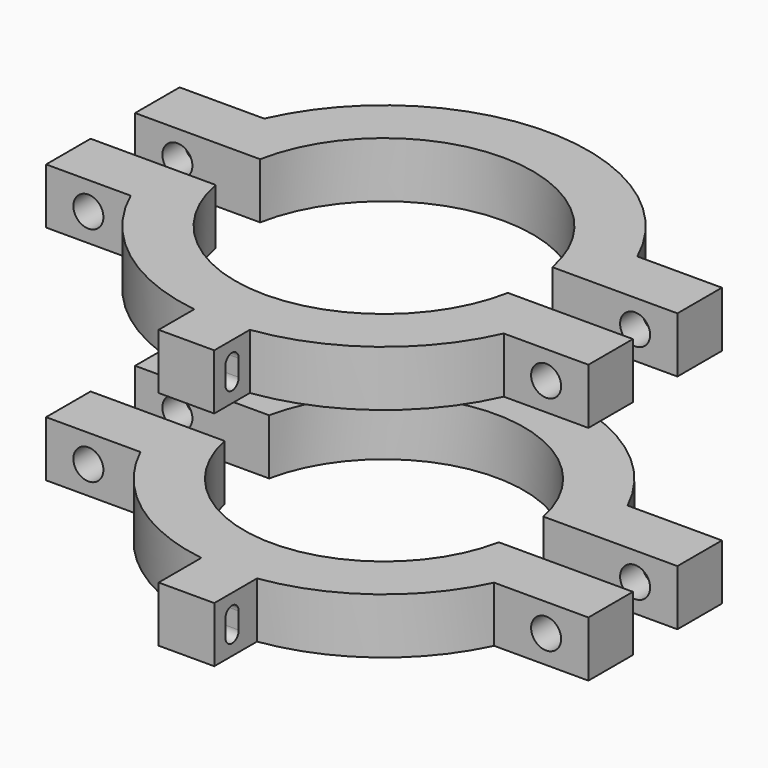
from build123d import *

# Parameters (mm, degrees)
EXTRUDE001_DEPTH          = 5
EXTRUDE001_ROLL_ANGLE     = 90
EXTRUDE002_DEPTH          = 5
EXTRUDE002_ROLL_ANGLE     = 90
CYLINDER006_R             = 2.7
CYLINDER006_DEPTH         = 60
CYLINDER006_ROLL_ANGLE    = -90
CYLINDER004_R             = 2.7
CYLINDER004_DEPTH         = 60
CYLINDER004_ROLL_ANGLE    = -90
PAD004_DEPTH              = 10
EXTRUDE_DEPTH             = 5
EXTRUDE_ROLL_ANGLE        = 90
EXTRUDE003_DEPTH          = 5
EXTRUDE003_ROLL_ANGLE     = 90
CYLINDER007_R             = 2.7
CYLINDER007_DEPTH         = 60
CYLINDER007_ROLL_ANGLE    = -90
CYLINDER005_R             = 2.7
CYLINDER005_DEPTH         = 60
CYLINDER005_ROLL_ANGLE    = -90
PAD006_DEPTH              = 10
BOX_W                     = 3
BOX_H                     = 3
BOX_DEPTH                 = 20
CYLINDER008_R             = 1.5
CYLINDER008_DEPTH         = 20
CYLINDER009_R             = 1.5
CYLINDER009_DEPTH         = 20
FUSION_ROLL_ANGLE         = 90
FUSION_PLACEMENT_ANGLE    = 90
CYLINDER002_R             = 2.7
CYLINDER002_DEPTH         = 60
CYLINDER002_ROLL_ANGLE    = -90
CYLINDER_R                = 2.7
CYLINDER_DEPTH            = 60
CYLINDER_ROLL_ANGLE       = -90
PAD_DEPTH                 = 10
BOX001_W                  = 3
BOX001_H                  = 3
BOX001_DEPTH              = 20
CYLINDER010_R             = 1.5
CYLINDER010_DEPTH         = 20
CYLINDER011_R             = 1.5
CYLINDER011_DEPTH         = 20
FUSION001_ROLL_ANGLE      = 90
FUSION001_PLACEMENT_ANGLE = 90
CYLINDER003_R             = 2.7
CYLINDER003_DEPTH         = 60
CYLINDER003_ROLL_ANGLE    = -90
CYLINDER001_R             = 2.7
CYLINDER001_DEPTH         = 60
CYLINDER001_ROLL_ANGLE    = -90
PAD005_DEPTH              = 10


with BuildPart() as top_right_nut:
    # RegularPolygon001 → Extrude001 (new body)
    with BuildSketch(Plane(origin=(0, 0, 0), x_dir=(0, 1, 0), z_dir=(0, 0, 1))):
        Polygon((0, -4.42), (3.827832, -2.21), (3.827832, 2.21), (0, 4.42), (-3.827832, 2.21), (-3.827832, -2.21), align=None)
    extrude(amount=EXTRUDE001_DEPTH)


with BuildPart() as top_right_nut_1:
    # Extrude001 roll: moved
    add(top_right_nut.part.rotate(Axis((0, 0, 0), (1, 0, 0)), EXTRUDE001_ROLL_ANGLE))


with BuildPart() as top_right_nut_2:
    # Extrude001 placement: moved
    add(top_right_nut_1.part.moved(Location((41.144225, 15, 45))))


with BuildPart() as top_left_nut:
    # RegularPolygon002 → Extrude002 (new body)
    with BuildSketch(Plane(origin=(0, 0, 0), x_dir=(0, 1, 0), z_dir=(0, 0, 1))):
        Polygon((0, -4.42), (3.827832, -2.21), (3.827832, 2.21), (0, 4.42), (-3.827832, 2.21), (-3.827832, -2.21), align=None)
    extrude(amount=EXTRUDE002_DEPTH)


with BuildPart() as top_left_nut_1:
    # Extrude002 roll: moved
    add(top_left_nut.part.rotate(Axis((0, 0, 0), (1, 0, 0)), EXTRUDE002_ROLL_ANGLE))


with BuildPart() as top_left_nut_2:
    # Extrude002 placement: moved
    add(top_left_nut_1.part.moved(Location((-41.144225, 15, 45))))


with BuildPart() as cyl_top_right001:
    # Cylinder006 → Cylinder006 (new body)
    with BuildSketch(Plane.XY):
        Circle(CYLINDER006_R)
    extrude(amount=CYLINDER006_DEPTH)


with BuildPart() as cyl_top_right001_1:
    # Cylinder006 roll: moved
    add(cyl_top_right001.part.rotate(Axis((0, 0, 0), (1, 0, 0)), CYLINDER006_ROLL_ANGLE))


with BuildPart() as cyl_top_right001_2:
    # Cylinder006 placement: moved
    add(cyl_top_right001_1.part.moved(Location((41.144225, -25, 45))))


with BuildPart() as cyl_top_left001:
    # Cylinder004 → Cylinder004 (new body)
    with BuildSketch(Plane.XY):
        Circle(CYLINDER004_R)
    extrude(amount=CYLINDER004_DEPTH)


with BuildPart() as cyl_top_left001_1:
    # Cylinder004 roll: moved
    add(cyl_top_left001.part.rotate(Axis((0, 0, 0), (1, 0, 0)), CYLINDER004_ROLL_ANGLE))


with BuildPart() as cyl_top_left001_2:
    # Cylinder004 placement: moved
    add(cyl_top_left001_1.part.moved(Location((-41.144225, -25, 45))))


with BuildPart() as rear_top_clamp_nut_holes:
    # Sketch004 → Pad004 (new body)
    with BuildSketch(Plane(origin=(0, 0, 40), x_dir=(-1, 0, 0), z_dir=(0, 0, 1))):
        with BuildLine():
            ThreePointArc((-26.268376, -5), (0, -26.74), (26.268376, -5))
            Line((48.75, -5), (26.268376, -5))
            Line((48.75, -5), (48.75, -15))
            Line((48.75, -15), (33.53845, -15))
            ThreePointArc((-33.53845, -15), (0, -36.74), (33.53845, -15))
            Line((-48.75, -15), (-33.53845, -15))
            Line((-48.75, -5), (-48.75, -15))
            Line((-26.268376, -5), (-48.75, -5))
        make_face()
    extrude(amount=PAD004_DEPTH)

    # Cut001: cut cyl_top_left001
    add(cyl_top_left001_2.part, mode=Mode.SUBTRACT)

    # Cut005: cut cyl_top_right001
    add(cyl_top_right001_2.part, mode=Mode.SUBTRACT)

    # Cut008: cut top_left_nut
    add(top_left_nut_2.part, mode=Mode.SUBTRACT)

    # Cut009: cut top_right_nut
    add(top_right_nut_2.part, mode=Mode.SUBTRACT)


with BuildPart() as bottom_right_nut:
    # RegularPolygon → Extrude (new body)
    with BuildSketch(Plane(origin=(0, 0, 0), x_dir=(0, 1, 0), z_dir=(0, 0, 1))):
        Polygon((0, -4.42), (3.827832, -2.21), (3.827832, 2.21), (0, 4.42), (-3.827832, 2.21), (-3.827832, -2.21), align=None)
    extrude(amount=EXTRUDE_DEPTH)


with BuildPart() as bottom_right_nut_1:
    # Extrude roll: moved
    add(bottom_right_nut.part.rotate(Axis((0, 0, 0), (1, 0, 0)), EXTRUDE_ROLL_ANGLE))


with BuildPart() as bottom_right_nut_2:
    # Extrude placement: moved
    add(bottom_right_nut_1.part.moved(Location((41.144225, 15, 5))))


with BuildPart() as bottom_left_nut:
    # RegularPolygon003 → Extrude003 (new body)
    with BuildSketch(Plane(origin=(0, 0, 0), x_dir=(0, 1, 0), z_dir=(0, 0, 1))):
        Polygon((0, -4.42), (3.827832, -2.21), (3.827832, 2.21), (0, 4.42), (-3.827832, 2.21), (-3.827832, -2.21), align=None)
    extrude(amount=EXTRUDE003_DEPTH)


with BuildPart() as bottom_left_nut_1:
    # Extrude003 roll: moved
    add(bottom_left_nut.part.rotate(Axis((0, 0, 0), (1, 0, 0)), EXTRUDE003_ROLL_ANGLE))


with BuildPart() as bottom_left_nut_2:
    # Extrude003 placement: moved
    add(bottom_left_nut_1.part.moved(Location((-41.144225, 15, 5))))


with BuildPart() as cyl_bottom_right001:
    # Cylinder007 → Cylinder007 (new body)
    with BuildSketch(Plane.XY):
        Circle(CYLINDER007_R)
    extrude(amount=CYLINDER007_DEPTH)


with BuildPart() as cyl_bottom_right001_1:
    # Cylinder007 roll: moved
    add(cyl_bottom_right001.part.rotate(Axis((0, 0, 0), (1, 0, 0)), CYLINDER007_ROLL_ANGLE))


with BuildPart() as cyl_bottom_right001_2:
    # Cylinder007 placement: moved
    add(cyl_bottom_right001_1.part.moved(Location((41.144225, -25, 5))))


with BuildPart() as cyl_bottom_left001:
    # Cylinder005 → Cylinder005 (new body)
    with BuildSketch(Plane.XY):
        Circle(CYLINDER005_R)
    extrude(amount=CYLINDER005_DEPTH)


with BuildPart() as cyl_bottom_left001_1:
    # Cylinder005 roll: moved
    add(cyl_bottom_left001.part.rotate(Axis((0, 0, 0), (1, 0, 0)), CYLINDER005_ROLL_ANGLE))


with BuildPart() as cyl_bottom_left001_2:
    # Cylinder005 placement: moved
    add(cyl_bottom_left001_1.part.moved(Location((-41.144225, -25, 5))))


with BuildPart() as rear_bottom_clamp_nut_holes:
    # Sketch006 → Pad006 (new body)
    with BuildSketch(Plane(origin=(0, 0, 0), x_dir=(-1, 0, 0), z_dir=(0, 0, 1))):
        with BuildLine():
            ThreePointArc((-24.647972, -5), (0, -25.15), (24.647972, -5))
            Line((48.75, -5), (24.647972, -5))
            Line((48.75, -5), (48.75, -15))
            Line((48.75, -15), (31.788717, -15))
            ThreePointArc((-31.788717, -15), (0, -35.15), (31.788717, -15))
            Line((-48.75, -15), (-31.788717, -15))
            Line((-48.75, -5), (-48.75, -15))
            Line((-24.647972, -5), (-48.75, -5))
        make_face()
    extrude(amount=PAD006_DEPTH)

    # Cut003: cut cyl_bottom_left001
    add(cyl_bottom_left001_2.part, mode=Mode.SUBTRACT)

    # Cut007: cut cyl_bottom_right001
    add(cyl_bottom_right001_2.part, mode=Mode.SUBTRACT)

    # Cut010: cut bottom_left_nut
    add(bottom_left_nut_2.part, mode=Mode.SUBTRACT)

    # Cut011: cut bottom_right_nut
    add(bottom_right_nut_2.part, mode=Mode.SUBTRACT)


with BuildPart() as cube:
    # Box → Box (new body)
    with BuildSketch(Plane(origin=(-1.5, -1.5, 0), x_dir=(1, 0, 0), z_dir=(0, 0, 1))):
        with Locations((1.5, 1.5)):
            Rectangle(BOX_W, BOX_H)
    extrude(amount=BOX_DEPTH)


with BuildPart() as cylinder:
    # Cylinder008 → Cylinder008 (new body)
    with BuildSketch(Plane(origin=(0, -1.5, 0), x_dir=(1, 0, 0), z_dir=(0, 0, 1))):
        Circle(CYLINDER008_R)
    extrude(amount=CYLINDER008_DEPTH)


with BuildPart() as hueco_soporte:
    # Cylinder009 → Cylinder009 (new body)
    with BuildSketch(Plane(origin=(0, 1.5, 0), x_dir=(1, 0, 0), z_dir=(0, 0, 1))):
        Circle(CYLINDER009_R)
    extrude(amount=CYLINDER009_DEPTH)

    # Fusion: union Cube, Cylinder
    add(cube.part)
    add(cylinder.part)


with BuildPart() as hueco_soporte_1:
    # Fusion roll: moved
    add(hueco_soporte.part.rotate(Axis((0, 0, 0), (1, 0, 0)), FUSION_ROLL_ANGLE))


with BuildPart() as hueco_soporte_2:
    # Fusion placement: moved
    add(hueco_soporte_1.part.moved(Location((-10, -40.398181, 45))).rotate(Axis((-10, -40.398181, 45), (0, 0, 1)), FUSION_PLACEMENT_ANGLE))


with BuildPart() as cyl_top_right:
    # Cylinder002 → Cylinder002 (new body)
    with BuildSketch(Plane.XY):
        Circle(CYLINDER002_R)
    extrude(amount=CYLINDER002_DEPTH)


with BuildPart() as cyl_top_right_1:
    # Cylinder002 roll: moved
    add(cyl_top_right.part.rotate(Axis((0, 0, 0), (1, 0, 0)), CYLINDER002_ROLL_ANGLE))


with BuildPart() as cyl_top_right_2:
    # Cylinder002 placement: moved
    add(cyl_top_right_1.part.moved(Location((41.144225, -25, 45))))


with BuildPart() as cyl_top_left:
    # Cylinder → Cylinder (new body)
    with BuildSketch(Plane.XY):
        Circle(CYLINDER_R)
    extrude(amount=CYLINDER_DEPTH)


with BuildPart() as cyl_top_left_1:
    # Cylinder roll: moved
    add(cyl_top_left.part.rotate(Axis((0, 0, 0), (1, 0, 0)), CYLINDER_ROLL_ANGLE))


with BuildPart() as cyl_top_left_2:
    # Cylinder placement: moved
    add(cyl_top_left_1.part.moved(Location((-41.144225, -25, 45))))


with BuildPart() as fore_top_clamp_all_holes:
    # Sketch → Pad (new body)
    with BuildSketch(Plane.XY.offset(40)):
        with BuildLine():
            ThreePointArc((-26.268376, -5), (0, -26.74), (26.268376, -5))
            Line((48.75, -5), (26.268376, -5))
            Line((48.75, -5), (48.75, -15))
            Line((48.75, -15), (33.53845, -15))
            ThreePointArc((5, -36.398181), (22.040271, -29.394796), (33.53845, -15))
            Line((5, -44.398181), (5, -36.398181))
            Line((-5, -44.398181), (5, -44.398181))
            Line((-5, -36.398181), (-5, -44.398181))
            ThreePointArc((-33.53845, -15), (-22.040271, -29.394796), (-5, -36.398181))
            Line((-48.75, -15), (-33.53845, -15))
            Line((-48.75, -5), (-48.75, -15))
            Line((-26.268376, -5), (-48.75, -5))
        make_face()
    extrude(amount=PAD_DEPTH)

    # Cut: cut cyl_top_left
    add(cyl_top_left_2.part, mode=Mode.SUBTRACT)

    # Cut004: cut cyl_top_right
    add(cyl_top_right_2.part, mode=Mode.SUBTRACT)

    # Cut012: cut hueco_soporte
    add(hueco_soporte_2.part, mode=Mode.SUBTRACT)


with BuildPart() as cube001:
    # Box001 → Box001 (new body)
    with BuildSketch(Plane(origin=(-1.5, -1.5, 0), x_dir=(1, 0, 0), z_dir=(0, 0, 1))):
        with Locations((1.5, 1.5)):
            Rectangle(BOX001_W, BOX001_H)
    extrude(amount=BOX001_DEPTH)


with BuildPart() as cylinder012:
    # Cylinder010 → Cylinder010 (new body)
    with BuildSketch(Plane(origin=(0, -1.5, 0), x_dir=(1, 0, 0), z_dir=(0, 0, 1))):
        Circle(CYLINDER010_R)
    extrude(amount=CYLINDER010_DEPTH)


with BuildPart() as hueco_soporte001:
    # Cylinder011 → Cylinder011 (new body)
    with BuildSketch(Plane(origin=(0, 1.5, 0), x_dir=(1, 0, 0), z_dir=(0, 0, 1))):
        Circle(CYLINDER011_R)
    extrude(amount=CYLINDER011_DEPTH)

    # Fusion001: union Cube001, Cylinder012
    add(cube001.part)
    add(cylinder012.part)


with BuildPart() as hueco_soporte001_1:
    # Fusion001 roll: moved
    add(hueco_soporte001.part.rotate(Axis((0, 0, 0), (1, 0, 0)), FUSION001_ROLL_ANGLE))


with BuildPart() as hueco_soporte001_2:
    # Fusion001 placement: moved
    add(hueco_soporte001_1.part.moved(Location((-10, -40.398181, 5))).rotate(Axis((-10, -40.398181, 5), (0, 0, 1)), FUSION001_PLACEMENT_ANGLE))


with BuildPart() as cyl_bottom_right:
    # Cylinder003 → Cylinder003 (new body)
    with BuildSketch(Plane.XY):
        Circle(CYLINDER003_R)
    extrude(amount=CYLINDER003_DEPTH)


with BuildPart() as cyl_bottom_right_1:
    # Cylinder003 roll: moved
    add(cyl_bottom_right.part.rotate(Axis((0, 0, 0), (1, 0, 0)), CYLINDER003_ROLL_ANGLE))


with BuildPart() as cyl_bottom_right_2:
    # Cylinder003 placement: moved
    add(cyl_bottom_right_1.part.moved(Location((41.144225, -25, 5))))


with BuildPart() as cyl_bottom_left:
    # Cylinder001 → Cylinder001 (new body)
    with BuildSketch(Plane.XY):
        Circle(CYLINDER001_R)
    extrude(amount=CYLINDER001_DEPTH)


with BuildPart() as cyl_bottom_left_1:
    # Cylinder001 roll: moved
    add(cyl_bottom_left.part.rotate(Axis((0, 0, 0), (1, 0, 0)), CYLINDER001_ROLL_ANGLE))


with BuildPart() as cyl_bottom_left_2:
    # Cylinder001 placement: moved
    add(cyl_bottom_left_1.part.moved(Location((-41.144225, -25, 5))))


with BuildPart() as fore_bottom_clamp_all_holes:
    # Sketch005 → Pad005 (new body)
    with BuildSketch(Plane.XY):
        with BuildLine():
            ThreePointArc((-24.647972, -5), (0, -25.15), (24.647972, -5))
            Line((48.75, -5), (24.647972, -5))
            Line((48.75, -5), (48.75, -15))
            Line((48.75, -15), (31.788717, -15))
            ThreePointArc((5, -34.792564), (20.887528, -28.270721), (31.788717, -15))
            Line((5, -44.392564), (5, -34.792564))
            Line((-5, -44.392564), (5, -44.392564))
            Line((-5, -34.792564), (-5, -44.392564))
            ThreePointArc((-31.788717, -15), (-20.887528, -28.270721), (-5, -34.792564))
            Line((-48.75, -15), (-31.788717, -15))
            Line((-48.75, -5), (-48.75, -15))
            Line((-24.647972, -5), (-48.75, -5))
        make_face()
    extrude(amount=PAD005_DEPTH)

    # Cut002: cut cyl_bottom_left
    add(cyl_bottom_left_2.part, mode=Mode.SUBTRACT)

    # Cut006: cut cyl_bottom_right
    add(cyl_bottom_right_2.part, mode=Mode.SUBTRACT)

    # Cut013: cut hueco_soporte001
    add(hueco_soporte001_2.part, mode=Mode.SUBTRACT)


solid = Compound([rear_top_clamp_nut_holes.part, rear_bottom_clamp_nut_holes.part, fore_top_clamp_all_holes.part, fore_bottom_clamp_all_holes.part])
